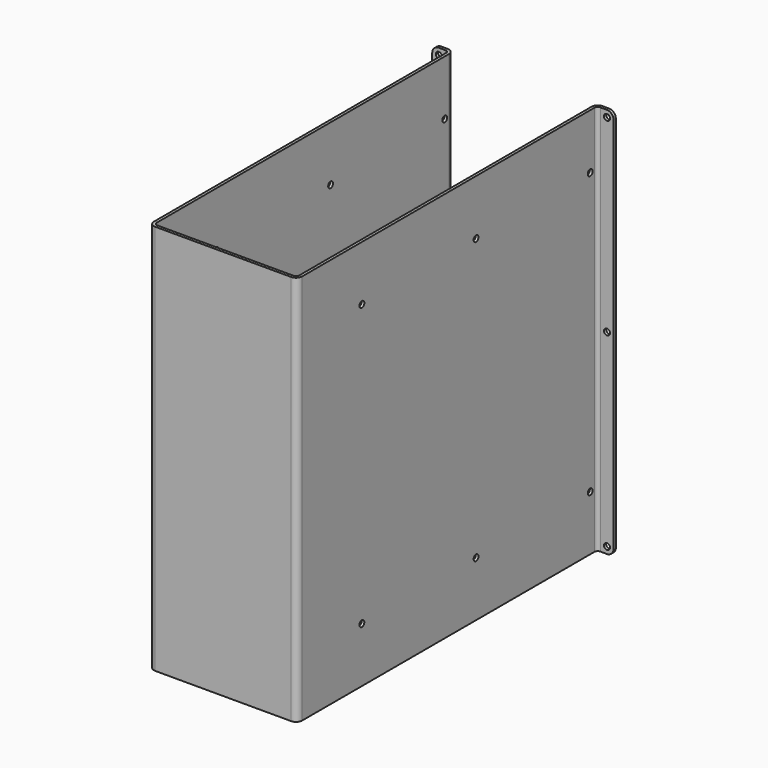
from build123d import *

# Parameters (mm, degrees)
F1_DEPTH = 234.95
F2_R     = 3.69316
F3_R     = 1.98374
F4_R     = 3.96875
F5_R     = 1.8288
F6_DEPTH = 89.11082
F7_R     = 1.8288
F8_DEPTH = 1.70942


with BuildPart() as f1:
    # F0 (on Top) → F1 (new body)
    with BuildSketch(Plane.XY):
        Polygon((0, -225.18116), (0, 0), (-11.63066, 0), (-11.63066, -1.70942), (-1.70942, -1.70942), (-1.70942, -226.89058), (87.4014, -226.89058), (87.4014, -1.70942), (97.32264, -1.70942), (97.32264, 0), (85.69198, 0), (85.69198, -225.18116), align=None)
    extrude(amount=F1_DEPTH)

    # F2
    f2_edges = [f1.edges().sort_by_distance(p)[0] for p in [
        (-1.70942, -226.89058, 117.475),
        (87.4014, -226.89058, 117.475),
        (85.69198, 0, 117.475),
        (0, 0, 117.475),
    ]]
    fillet(f2_edges, radius=F2_R)

    # F3
    f3_edges = [f1.edges().sort_by_distance(p)[0] for p in [
        (0, -225.18116, 117.475),
        (85.69198, -225.18116, 117.475),
        (-1.70942, -1.70942, 117.475),
        (87.4014, -1.70942, 117.475),
    ]]
    fillet(f3_edges, radius=F3_R)

    # F4
    f4_edges = [f1.edges().sort_by_distance(p)[0] for p in [
        (-11.63066, -0.85471, 0),
        (-11.63066, -0.85471, 234.95),
        (97.32264, -0.85471, 234.95),
        (97.32264, -0.85471, 0),
    ]]
    fillet(f4_edges, radius=F4_R)

    # F5 (on face) → F6 (cut, through all)
    with BuildSketch(Plane.YZ.offset(87.4014)):
        with Locations((-6.86816, 33.061364)):
            Circle(F5_R)
        with Locations((-92.600069, 33.061364)):
            Circle(F5_R)
        with Locations((-178.331978, 33.061364)):
            Circle(F5_R)
        with Locations((-178.331978, 201.888636)):
            Circle(F5_R)
        with Locations((-92.600069, 201.888636)):
            Circle(F5_R)
        with Locations((-6.86816, 201.888636)):
            Circle(F5_R)
    extrude(amount=-F6_DEPTH, mode=Mode.SUBTRACT)

    # F7 (on face) → F8 (cut, through all)
    with BuildSketch(Plane(origin=(0, 0, 0), x_dir=(-1, 0, 0), z_dir=(0, 1, 0))):
        with Locations((-93.35389, 3.96875)):
            Circle(F7_R)
        with Locations((-93.35389, 117.475)):
            Circle(F7_R)
        with Locations((-93.35389, 230.98125)):
            Circle(F7_R)
        with Locations((7.66191, 230.98125)):
            Circle(F7_R)
        with Locations((7.66191, 117.475)):
            Circle(F7_R)
        with Locations((7.66191, 3.96875)):
            Circle(F7_R)
    extrude(amount=-F8_DEPTH, mode=Mode.SUBTRACT)


solid = f1.part
